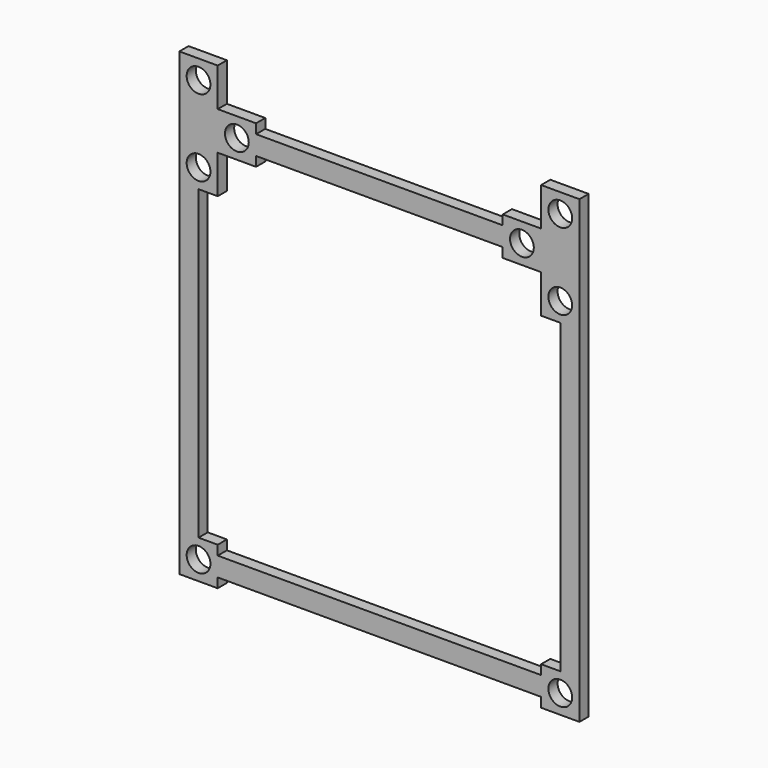
from build123d import *

# Parameters (mm, degrees)
F0_W     = 5
F0_H     = 10
F0_H_2   = 80
F0_W_2   = 32.165
F0_H_3   = 5
F0_W_3   = 42.165
F0_W_4   = 10
F1_DEPTH = 3
F2_R     = 3.1
F3_DEPTH = 3.001


with BuildPart() as f1:
    # F0 (on Front) → F1 (new body)
    with BuildSketch(Plane.XZ):
        Polygon((-52.165, 65.5050006509), (-52.165, 55.5050006509), (-47.165, 55.5050006509), (-42.165, 55.5050006509), (-42.165, 65.5050006509), align=None)
        with Locations((-49.665, 50.5050006509)):
            Rectangle(F0_W, F0_H)
        with Locations((-44.665, 50.5050006509)):
            Rectangle(F0_W, F0_H)
        Polygon((-47.165, 45.5050006509), (-52.165, 45.5050006509), (-52.165, 35.5050006509), (-47.165, 35.5050006509), (-42.165, 35.5050006509), (-42.165, 45.5050006509), align=None)
        Polygon((-32.165, 55.5050006509), (-42.165, 55.5050006509), (-42.165, 45.5050006509), (-32.165, 45.5050006509), (-32.165, 48.0050006509), (-32.165, 53.0050006509), align=None)
        with Locations((-49.665, -4.4949993491)):
            Rectangle(F0_W, F0_H_2)
        Polygon((-47.165, -44.4949993491), (-52.165, -44.4949993491), (-52.165, -54.4949993491), (-42.165, -54.4949993491), (-42.165, -51.9949993491), (-42.165, -46.9949993491), (-42.165, -44.4949993491), align=None)
        with Locations((-16.0825, 50.5050006509)):
            Rectangle(F0_W_2, F0_H_3)
        with Locations((16.0825, 50.5050006509)):
            Rectangle(F0_W_2, F0_H_3)
        Polygon((32.165, 55.5050006509), (32.165, 53.0050006509), (32.165, 48.0050006509), (32.165, 45.5050006509), (42.165, 45.5050006509), (42.165, 55.5050006509), align=None)
        with Locations((-21.0825, -49.4949993491)):
            Rectangle(F0_W_3, F0_H_3)
        with Locations((21.0825, -49.4949993491)):
            Rectangle(F0_W_3, F0_H_3)
        with Locations((47.165, 50.5050006509)):
            Rectangle(F0_W_4, F0_H)
        with Locations((47.165, 60.5050006509)):
            Rectangle(F0_W_4, F0_H)
        Polygon((42.165, -44.4949993491), (42.165, -46.9949993491), (42.165, -51.9949993491), (42.165, -54.4949993491), (52.165, -54.4949993491), (52.165, -44.4949993491), (47.165, -44.4949993491), align=None)
        Polygon((52.165, 45.5050006509), (42.165, 45.5050006509), (42.165, 35.5050006509), (47.165, 35.5050006509), (52.165, 35.5050006509), align=None)
        with Locations((49.665, -4.4949993491)):
            Rectangle(F0_W, F0_H_2)
    extrude(amount=F1_DEPTH)

    # F2 (on face) → F3 (cut, through all)
    with BuildSketch(Plane.XZ.offset(3)):
        with Locations((-47.165, 60.5050006509)):
            Circle(F2_R)
        with Locations((-47.165, 40.5050006509)):
            Circle(F2_R)
        with Locations((-47.165, -49.4949993491)):
            Circle(F2_R)
        with Locations((-37.165, 50.5050006509)):
            Circle(F2_R)
        with Locations((47.165, 60.5050006509)):
            Circle(F2_R)
        with Locations((37.165, 50.5050006509)):
            Circle(F2_R)
        with Locations((47.165, 40.5050006509)):
            Circle(F2_R)
        with Locations((47.165, -49.4949993491)):
            Circle(F2_R)
    extrude(amount=-F3_DEPTH, mode=Mode.SUBTRACT)


solid = f1.part
